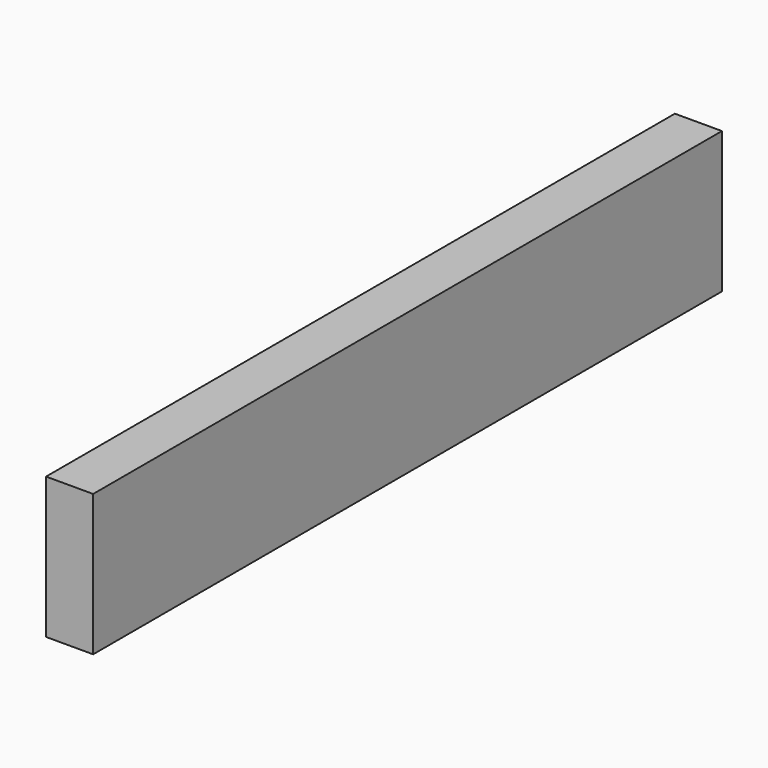
from build123d import *

# Parameters (mm, degrees)
F0_W     = 254
F0_H     = 762
F1_DEPTH = 4241.8
F2_W     = 25.4
F2_H     = 25.4
F3_DEPTH = 0.254


with BuildPart() as f1:
    # F0 (on Front) → F1 (new body)
    with BuildSketch(Plane.XZ):
        Rectangle(F0_W, F0_H)
    extrude(amount=F1_DEPTH)

    # F2 (on face) → F3 (join)
    with BuildSketch(Plane(origin=(-127, 0, 0), x_dir=(0, -1, 0), z_dir=(-1, 0, 0))):
        with Locations((622.3, 342.9)):
            Rectangle(F2_W, F2_H)
        with Locations((2120.9, 342.9)):
            Rectangle(F2_W, F2_H)
        with Locations((3619.5, 342.9)):
            Rectangle(F2_W, F2_H)
    extrude(amount=F3_DEPTH)


solid = f1.part
